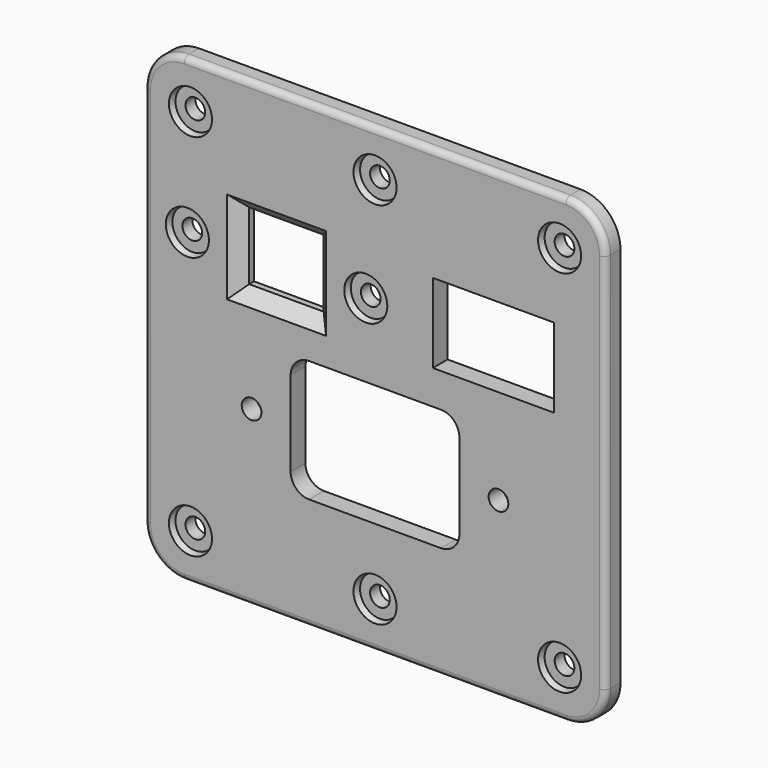
from build123d import *

# Parameters (mm, degrees)
F0_R     = 1.6
F0_W     = 12.1
F0_H     = 11
F0_W_2   = 19.7
F0_H_2   = 12.9
F1_DEPTH = 3
F2_R     = 3.5
F3_DEPTH = 1
F3_TAPER = 15
F4_R     = 1
F5_SIZE  = 2


with BuildPart() as f1:
    # F0 (on Front) → F1 (new body)
    with BuildSketch(Plane.XZ):
        with BuildLine():
            Line((68.5, 75), (6.5, 75))
            ThreePointArc((6.5, 75), (1.9038059223, 73.0961940777), (0, 68.5))
            Line((0, 68.5), (0, 6.5))
            ThreePointArc((0, 6.5), (1.9038059223, 1.9038059223), (6.5, 0))
            Line((6.5, 0), (68.5, 0))
            ThreePointArc((68.5, 0), (73.0961940777, 1.9038059223), (75, 6.5))
            Line((75, 6.5), (75, 68.5))
            ThreePointArc((75, 68.5), (73.0961940777, 73.0961940777), (68.5, 75))
        make_face()
        with Locations((7.5, 7.5)):
            Circle(F0_R, mode=Mode.SUBTRACT)
        with Locations((17.435, 28.1759891631)):
            Circle(F0_R, mode=Mode.SUBTRACT)
        with Locations((37.5, 7.5)):
            Circle(F0_R, mode=Mode.SUBTRACT)
        with Locations((67.5, 7.5)):
            Circle(F0_R, mode=Mode.SUBTRACT)
        with BuildLine():
            Line((26.785, 38.0809891631), (48.215, 38.0809891631))
            ThreePointArc((48.215, 38.0809891631), (50.3363203436, 37.2023095066), (51.215, 35.0809891631))
            Line((51.215, 35.0809891631), (51.215, 21.2709891631))
            ThreePointArc((51.215, 21.2709891631), (50.3363203436, 19.1496688195), (48.215, 18.2709891631))
            Line((48.215, 18.2709891631), (26.785, 18.2709891631))
            ThreePointArc((26.785, 18.2709891631), (24.6636796564, 19.1496688195), (23.785, 21.2709891631))
            Line((23.785, 21.2709891631), (23.785, 35.0809891631))
            ThreePointArc((23.785, 35.0809891631), (24.6636796564, 37.2023095066), (26.785, 38.0809891631))
        make_face(mode=Mode.SUBTRACT)
        with Locations((57.565, 28.1759891631)):
            Circle(F0_R, mode=Mode.SUBTRACT)
        with Locations((7, 50.0734709203)):
            Circle(F0_R, mode=Mode.SUBTRACT)
        with Locations((21.5, 50.0734709203)):
            Rectangle(F0_W, F0_H, mode=Mode.SUBTRACT)
        with Locations((36, 50.0734709203)):
            Circle(F0_R, mode=Mode.SUBTRACT)
        with Locations((7.5, 67.5)):
            Circle(F0_R, mode=Mode.SUBTRACT)
        with Locations((56.75, 50.0734709203)):
            Rectangle(F0_W_2, F0_H_2, mode=Mode.SUBTRACT)
        with Locations((37.5, 67.5)):
            Circle(F0_R, mode=Mode.SUBTRACT)
        with Locations((67.5, 67.5)):
            Circle(F0_R, mode=Mode.SUBTRACT)
    extrude(amount=F1_DEPTH)

    # F2 (on face) → F3 (cut)
    with BuildSketch(Plane.XZ.offset(3)):
        with Locations((7.5, 67.5)):
            Circle(F2_R)
        with Locations((37.5, 67.5)):
            Circle(F2_R)
        with Locations((67.5, 67.5)):
            Circle(F2_R)
        with Locations((36, 50.0734709203)):
            Circle(F2_R)
        with Locations((7, 50.0734709203)):
            Circle(F2_R)
        with Locations((67.5, 7.5)):
            Circle(F2_R)
        with Locations((37.5, 7.5)):
            Circle(F2_R)
        with Locations((7.5, 7.5)):
            Circle(F2_R)
    extrude(amount=-F3_DEPTH, taper=F3_TAPER, mode=Mode.SUBTRACT)

    # F4
    f4_edges = [f1.edges().sort_by_distance(p)[0] for p in [
        (37.5, -3, 0),
    ]]
    fillet(f4_edges, radius=F4_R)

    # F5
    f5_edges = [f1.edges().sort_by_distance(p)[0] for p in [
        (21.5, -3, 55.573471),
        (27.55, -3, 50.073471),
        (21.5, -3, 44.573471),
        (15.45, -3, 50.073471),
    ]]
    chamfer(f5_edges, length=F5_SIZE)


solid = f1.part
